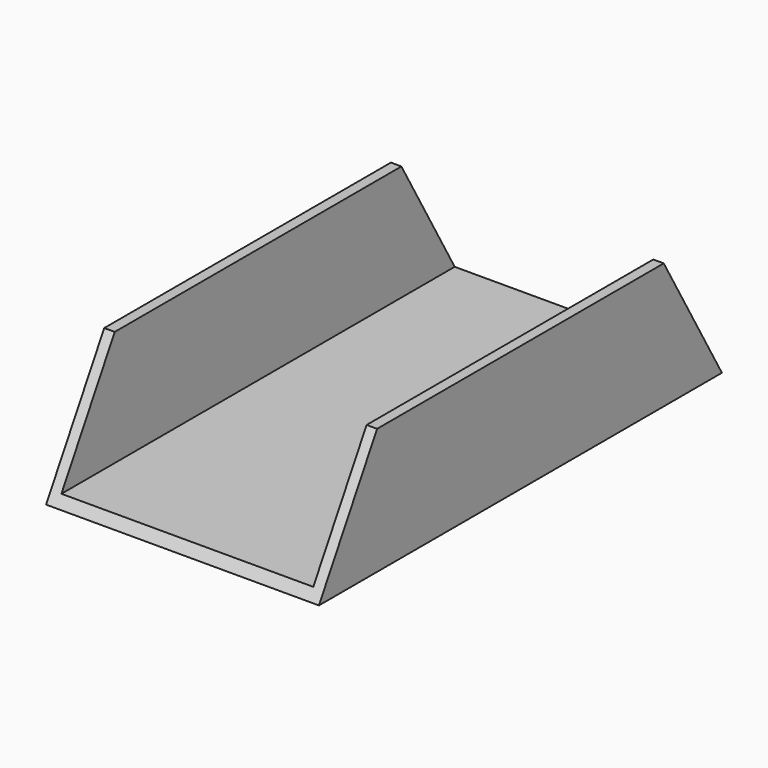
from build123d import *

# Parameters (mm, degrees)
F1_DEPTH = 152.4
F3_DEPTH = 6.35
F5_DEPTH = 6.35
F7_DEPTH = 101.6
F9_DEPTH = 165.1


with BuildPart() as f1:
    # F0 (on Right) → F1 (new body)
    with BuildSketch(Plane.YZ):
        Polygon((0, 6.35), (0, 0), (203.2, 0), (199.533826, 6.35), align=None)
    extrude(amount=F1_DEPTH)

    # F2 (on face) → F3 (join)
    with BuildSketch(Plane.YZ.offset(152.4)):
        Polygon((0, 0), (203.2, 0), (159.205909, 76.2), (0, 76.2), align=None)
    extrude(amount=F3_DEPTH)

    # F4 (on face) → F5 (join)
    with BuildSketch(Plane(origin=(0, 0, 0), x_dir=(0, -1, 0), z_dir=(-1, 0, 0))):
        Polygon((-159.205909, 76.2), (-203.2, 0), (0, 0), (0, 76.2), align=None)
    extrude(amount=F5_DEPTH)

    # F6 (on face) → F7 (join)
    with BuildSketch(Plane.XZ):
        Polygon((152.4, 76.2), (152.4, 6.35), (0, 6.35), (0, 76.2), (-6.35, 76.2), (-6.35, 0), (158.75, 0), (158.75, 76.2), align=None)
    extrude(amount=F7_DEPTH)

    # F8 (on face) → F9 (cut)
    with BuildSketch(Plane(origin=(-6.35, 0, 0), x_dir=(0, -1, 0), z_dir=(-1, 0, 0))):
        Polygon((57.605909, 76.2), (101.6, 0), (101.6, 76.2), align=None)
    extrude(amount=-F9_DEPTH, mode=Mode.SUBTRACT)


solid = f1.part
